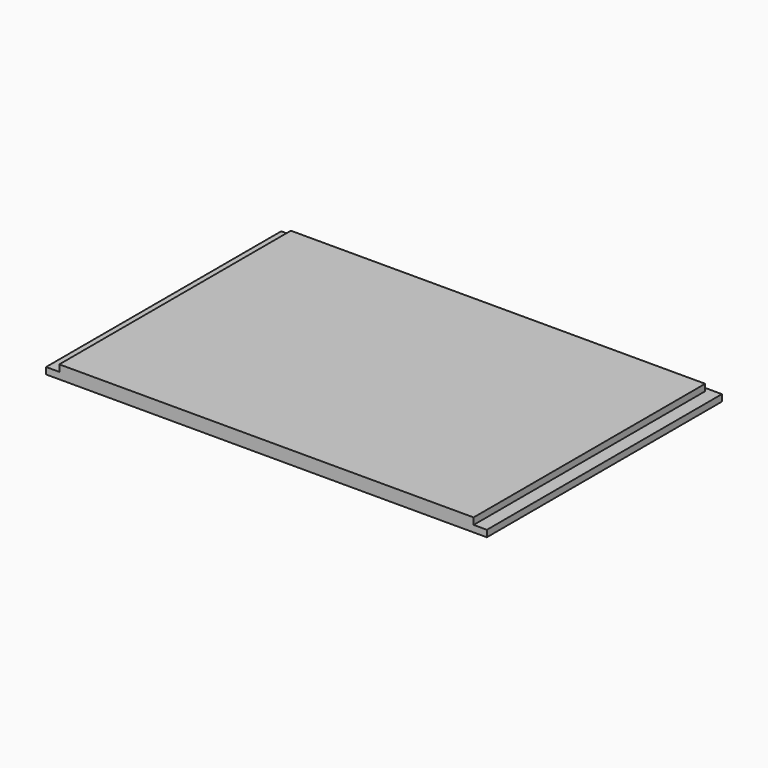
from build123d import *

# Parameters (mm, degrees)
F0_W     = 564
F0_H     = 394
F1_DEPTH = 18
F0_W_2   = 18
F0_H_2   = 6
F2_DEPTH = 9


with BuildPart() as f1:
    # F0 (on Top) → F1 (new body)
    with BuildSketch(Plane.XY):
        with Locations((300, 197)):
            Rectangle(F0_W, F0_H)
    extrude(amount=F1_DEPTH)

    # F0 (on Top) → F2 (join)
    with BuildSketch(Plane.XY):
        with Locations((9, 197)):
            Rectangle(F0_W_2, F0_H)
        with Locations((300, 397)):
            Rectangle(F0_W, F0_H_2)
        with Locations((9, 397)):
            Rectangle(F0_W_2, F0_H_2)
        with Locations((591, 397)):
            Rectangle(F0_W_2, F0_H_2)
        with Locations((591, 197)):
            Rectangle(F0_W_2, F0_H)
    extrude(amount=F2_DEPTH)


solid = f1.part
